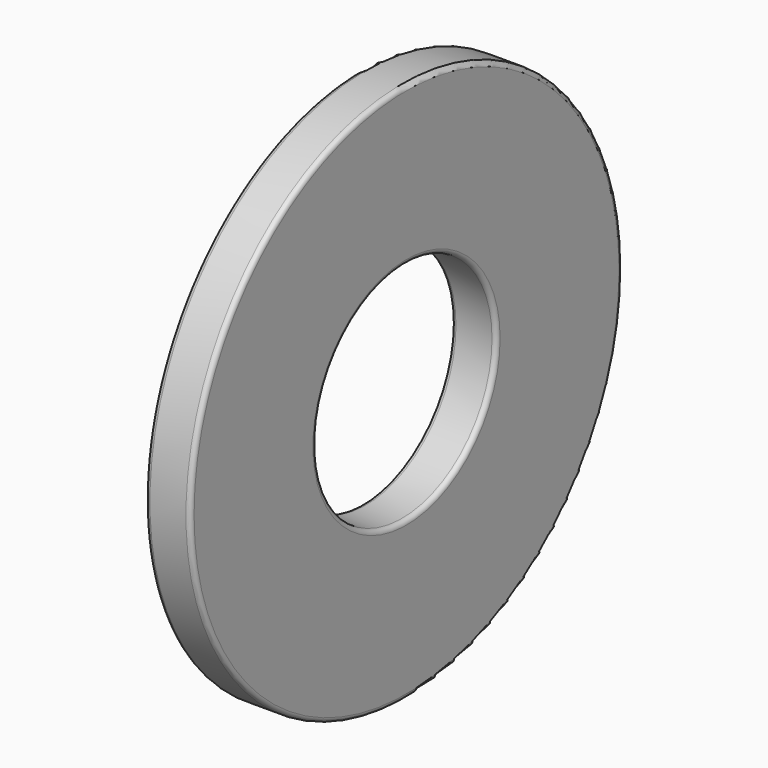
from build123d import *

# Parameters (mm, degrees)
F0_R     = 6
F0_R_2   = 2.5
F1_DEPTH = 1
F2_R     = 0.1
F3_R     = 0.1


with BuildPart() as f1:
    # F0 (on Right) → F1 (new body)
    with BuildSketch(Plane.YZ):
        Circle(F0_R)
        Circle(F0_R_2, mode=Mode.SUBTRACT)
    extrude(amount=F1_DEPTH)

    # F2
    f2_edges = [f1.edges().sort_by_distance(p)[0] for p in [
        (1, -6, 0),
        (0, -6, 0),
    ]]
    fillet(f2_edges, radius=F2_R)

    # F3
    f3_edges = [f1.edges().sort_by_distance(p)[0] for p in [
        (0, -2.5, 0),
        (1, -2.5, 0),
    ]]
    fillet(f3_edges, radius=F3_R)


solid = f1.part
